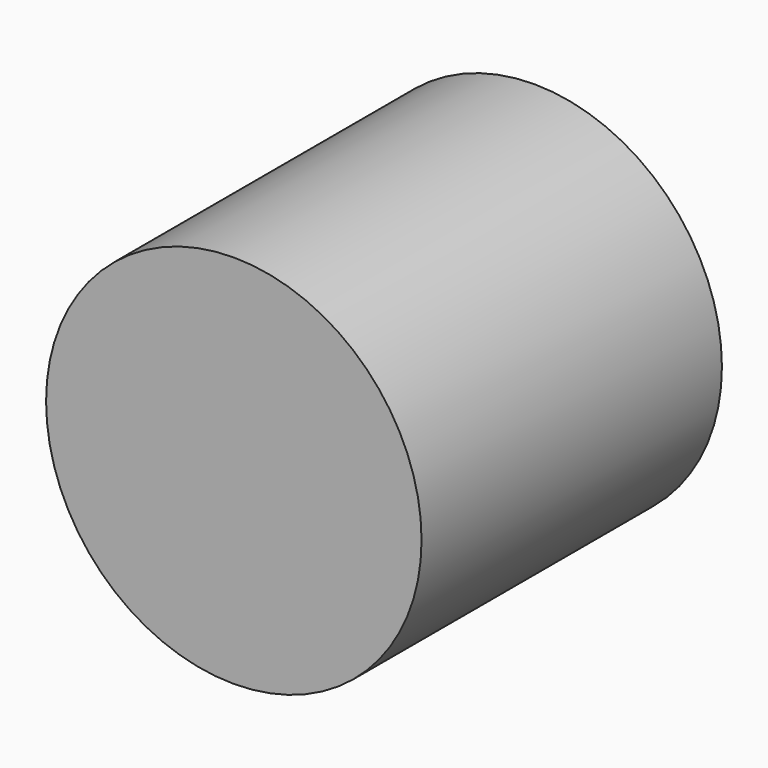
from build123d import *

# Parameters (mm, degrees)
SKETCH_R       = 10
PAD_DEPTH      = 10
PAD_DEPTH_BACK = 10


with BuildPart() as part:
    # Sketch → Pad (new body, two sides)
    with BuildSketch(Plane.XZ) as pad_sk:
        Circle(SKETCH_R)
    extrude(amount=PAD_DEPTH)
    extrude(pad_sk.sketch, amount=-PAD_DEPTH_BACK)


solid = part.part
